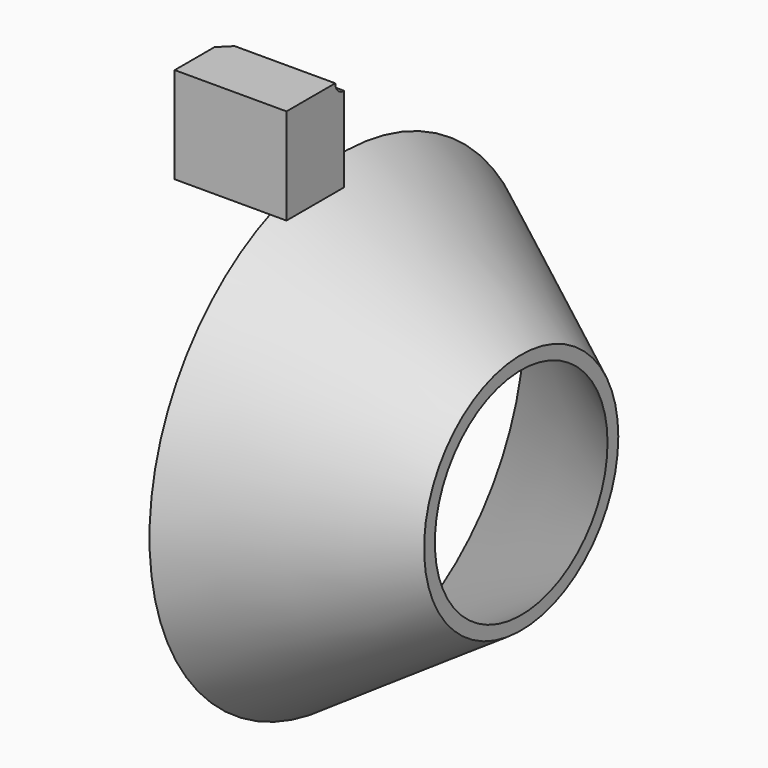
from build123d import *

# Parameters (mm, degrees)
F0_R           = 53.8935696429
F2_R           = 27.1405694362
F4_T           = -2.5
F5_W           = 16.1205343902
F5_H           = 21.5015411377
F6_DEPTH       = 25
F7_D           = 5
F7_CSINK_D     = 10
F7_CSINK_ANGLE = 90


with BuildPart() as f3:
    # F0 (on Right) → F3 section 0
    with BuildSketch(Plane.YZ):
        Circle(F0_R)
    # F2 (on offset) → F3 section 1
    with BuildSketch(Plane.YZ.offset(40)):
        Circle(F2_R)
    loft()

    # F4
    f4_openings = [f3.faces().sort_by_distance(p)[0] for p in [
        (40, 0, 0),
        (0, 0, 0),
    ]]
    offset(amount=F4_T, openings=f4_openings, kind=Kind.INTERSECTION)


with BuildPart() as f6:
    # F5 (on Right) → F6 (new body)
    with BuildSketch(Plane.YZ):
        with Locations((-38.7866627425, 78.4489735961)):
            Rectangle(F5_W, F5_H)
    extrude(amount=F6_DEPTH)

    # F7 (through all)
    with Locations(Plane(origin=(0, 0, 0), x_dir=(0, 1, 0), z_dir=(-1, 0, 0))):
        with Locations((-30.7263955474, -89.1997441649)):
            CounterSinkHole(F7_D / 2, F7_CSINK_D / 2, counter_sink_angle=F7_CSINK_ANGLE)


solid = Compound([f3.part, f6.part])
